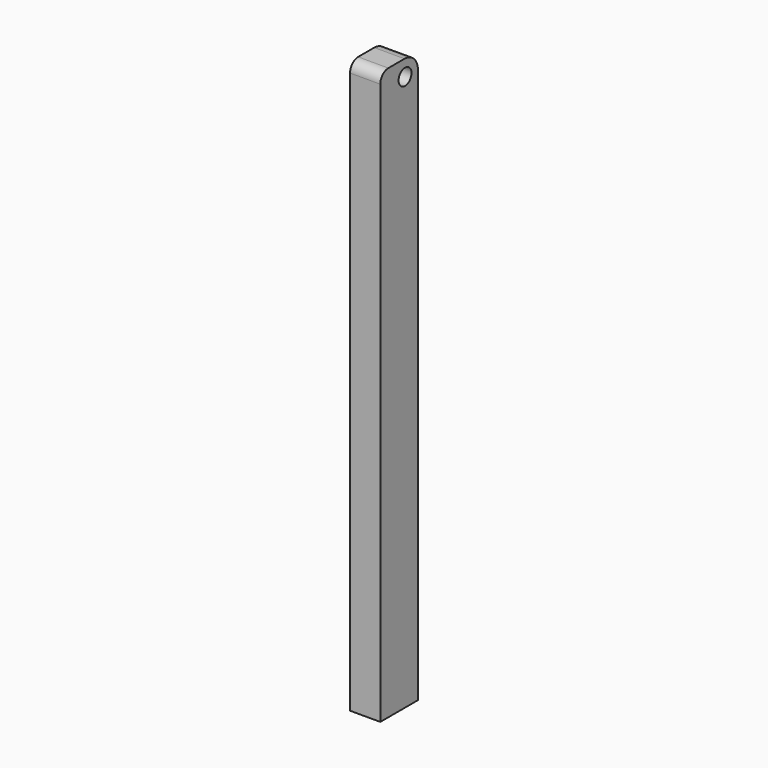
from build123d import *

# Parameters (mm, degrees)
F0_W     = 45
F0_H     = 850
F1_DEPTH = 70
F2_R     = 12
F3_DEPTH = 45.001
F4_R     = 25
F5_R     = 15


with BuildPart() as f1:
    # F0 (on Front) → F1 (new body)
    with BuildSketch(Plane.XZ):
        with Locations((22.5, -425)):
            Rectangle(F0_W, F0_H)
    extrude(amount=F1_DEPTH)

    # F2 (on face) → F3 (cut, through all)
    with BuildSketch(Plane(origin=(0, 0, 0), x_dir=(0, -1, 0), z_dir=(-1, 0, 0))):
        with Locations((24, -24)):
            Circle(F2_R)
    extrude(amount=-F3_DEPTH, mode=Mode.SUBTRACT)

    # F4
    f4_edges = [f1.edges().sort_by_distance(p)[0] for p in [
        (22.5, 0, 0),
    ]]
    fillet(f4_edges, radius=F4_R)

    # F5
    f5_edges = [f1.edges().sort_by_distance(p)[0] for p in [
        (22.5, -70, 0),
    ]]
    fillet(f5_edges, radius=F5_R)


solid = f1.part
